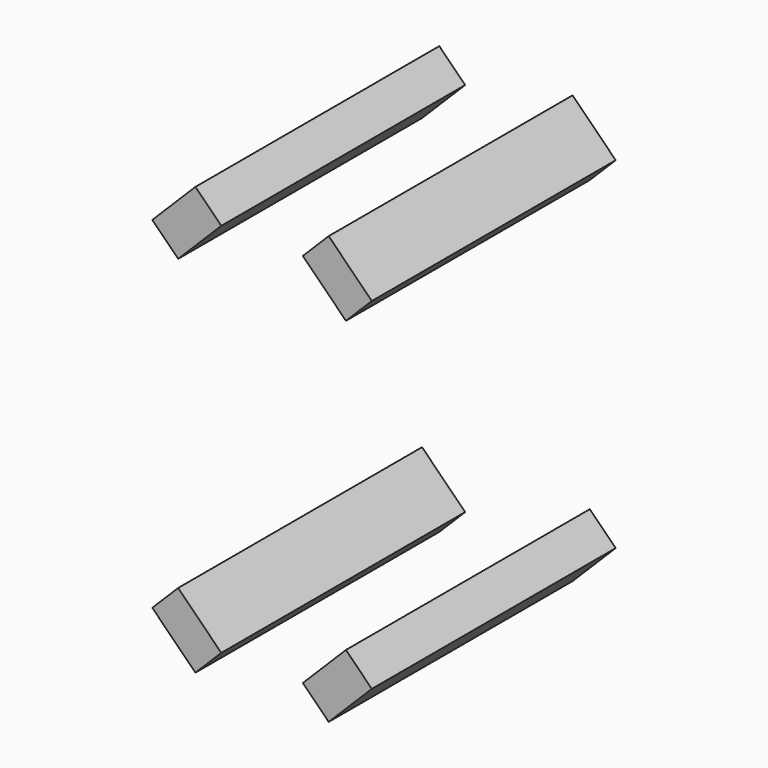
from build123d import *

# Parameters (mm, degrees)
F1_DEPTH = 25


with BuildPart() as f1:
    # F0 (on Front) → F1 (new body)
    with BuildSketch(Plane.XZ):
        Polygon((-6.87868, -11.87868), (-9, -14), (-5.464466, -17.535534), (-3.343146, -15.414214), align=None)
        Polygon((5.464466, -17.535534), (9, -14), (6.87868, -11.87868), (3.343146, -15.414214), align=None)
        Polygon((9, 14), (5.464466, 17.535534), (3.343146, 15.414214), (6.87868, 11.87868), align=None)
        Polygon((-3.343146, 15.414214), (-5.464466, 17.535534), (-9, 14), (-6.87868, 11.87868), align=None)
    extrude(amount=F1_DEPTH)


solid = f1.part
